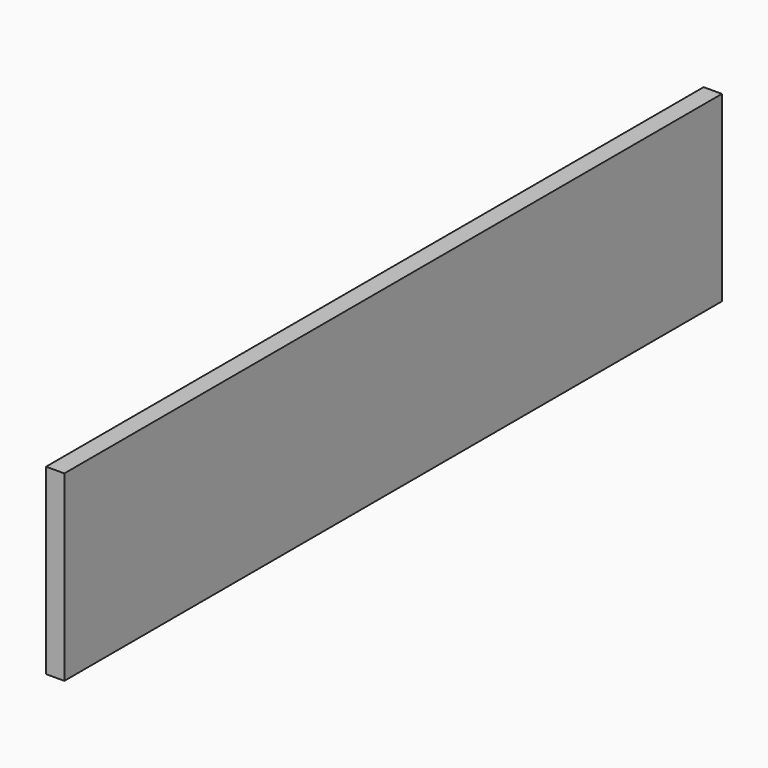
from build123d import *

# Parameters (mm, degrees)
PAD_DEPTH = 10


with BuildPart() as part:
    # Sketch → Pad (new body)
    with BuildSketch(Plane.YZ):
        Polygon((0, 0), (0, 100), (450, 100), (450, 0), (225, 0), align=None)
    extrude(amount=-PAD_DEPTH)


solid = part.part
